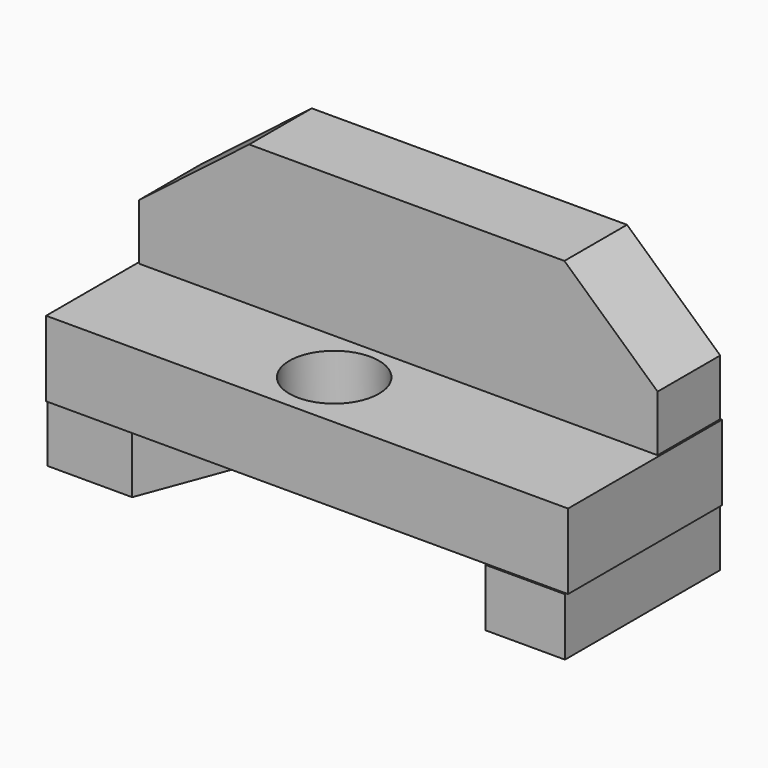
from build123d import *

# Parameters (mm, degrees)
F1_DEPTH = 13.462
F2_W     = 89.7744297981
F2_H     = 33.0824591219
F3_DEPTH = 12.954
F4_R     = 7.6951725226
F5_DEPTH = 63.5
F6_W     = 14.5737677813
F6_H     = 32.7909812331
F6_W_2   = 13.6993471533
F6_H_2   = 33.3739332855
F7_DEPTH = 9.906


with BuildPart() as f1:
    # F0 (on Front) → F1 (new body)
    with BuildSketch(Plane.XZ):
        Polygon((-27.1072126925, 37.1631160378), (-46.0531152785, 22.5893463939), (-46.0531152785, 0), (43.1383624673, 0), (43.1383624673, 22.5893463939), (27.1072126925, 37.1631160378), align=None)
    extrude(amount=F1_DEPTH)

    # F2 (on Top) → F3 (join)
    with BuildSketch(Plane.XY):
        with Locations((-1.4573782682, -16.541229561)):
            Rectangle(F2_W, F2_H)
    extrude(amount=F3_DEPTH)

    # F4 (on Top) → F5 (cut)
    with BuildSketch(Plane.XY):
        with Locations((-4.9550817348, -22.8808205575)):
            Circle(F4_R)
    extrude(amount=F5_DEPTH, mode=Mode.SUBTRACT)

    # F6 (on Top) → F7 (join)
    with BuildSketch(Plane.XY):
        with Locations((-39.0577055514, -16.3954906166)):
            Rectangle(F6_W, F6_H)
        Polygon((-31.7708216608, 0), (-31.7708216608, -32.7909812331), (-19.5288527757, 0), align=None)
        with Locations((36.2886888906, -16.6869666427)):
            Rectangle(F6_W_2, F6_H_2)
        Polygon((16.6140999645, 0), (29.439015314, -33.3739332855), (29.439015314, 0), align=None)
    extrude(amount=-F7_DEPTH)


solid = f1.part
